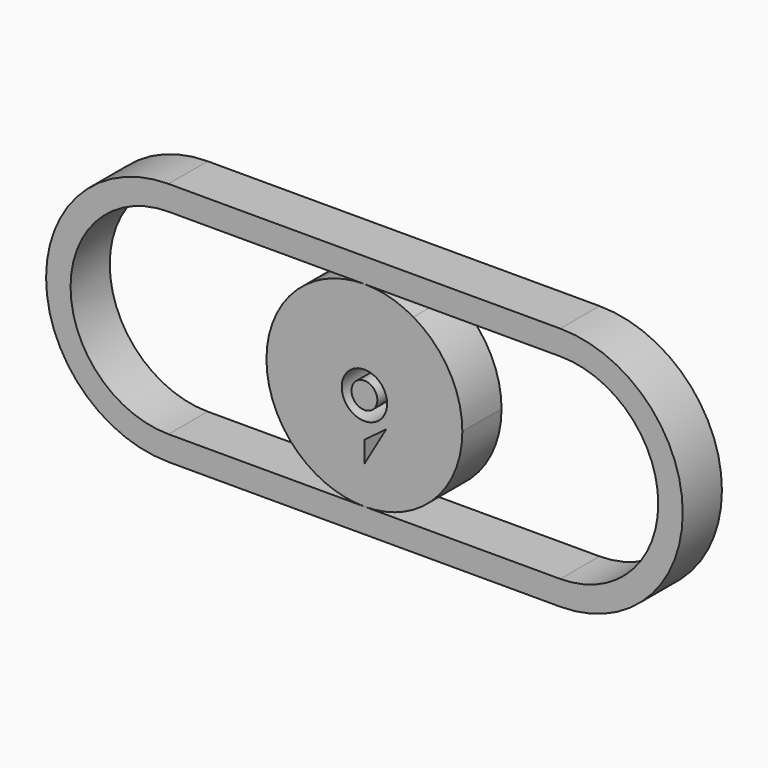
from build123d import *

# Parameters (mm, degrees)
F1_DEPTH = 25.4
F2_DEPTH = 25.4
F3_DEPTH = 25.4


with BuildPart() as f1:
    # F0 (on Front) → F1 (new body)
    with BuildSketch(Plane.XZ):
        with BuildLine():
            Line((11.774747, 0), (50.8, 0))
            ThreePointArc((50.8, 0), (43.994091, 25.4), (25.4, 43.994091))
            ThreePointArc((25.4, 43.994091), (13.148007, 49.069032), (0, 50.8))
            ThreePointArc((0, 50.8), (-13.148007, 49.069032), (-25.4, 43.994091))
            ThreePointArc((-25.4, 43.994091), (-43.994091, 25.4), (-50.8, 0))
            Line((-50.8, 0), (-11.774747, 0))
            ThreePointArc((-11.774747, 0), (0, 11.774747), (11.774747, 0))
        make_face()
        with BuildLine():
            ThreePointArc((25.4, -43.994091), (43.994091, -25.4), (50.8, 0))
            Line((50.8, 0), (11.774747, 0))
            ThreePointArc((11.774747, 0), (0, -11.774747), (-11.774747, 0))
            Line((-11.774747, 0), (-50.8, 0))
            ThreePointArc((-50.8, 0), (-43.994091, -25.4), (-25.4, -43.994091))
            ThreePointArc((-25.4, -43.994091), (-13.148007, -49.069032), (0, -50.8))
            ThreePointArc((0, -50.8), (13.148008, -49.069032), (25.4, -43.994091))
        make_face()
        Polygon((11.330799, -11.774747), (0, -31.287373), (0, -20.290352), align=None, mode=Mode.SUBTRACT)
    extrude(amount=F1_DEPTH)

    # F0 (on Front) → F2 (join)
    with BuildSketch(Plane.XZ):
        with BuildLine():
            Line((101.6, 63.5), (-101.6, 63.5))
            ThreePointArc((-101.6, 63.5), (-165.1, 0), (-101.6, -63.5))
            Line((-101.6, -63.5), (101.6, -63.5))
            ThreePointArc((101.6, -63.5), (165.1, 0), (101.6, 63.5))
        make_face()
        with BuildLine():
            Line((-101.6, 50.8), (0, 50.8))
            Line((0, 50.8), (101.6, 50.8))
            ThreePointArc((101.6, 50.8), (137.521024, 35.921024), (152.4, 0))
            ThreePointArc((152.4, 0), (137.521024, -35.921024), (101.6, -50.8))
            Line((101.6, -50.8), (0, -50.8))
            Line((0, -50.8), (-101.6, -50.8))
            ThreePointArc((-101.6, -50.8), (-152.4, 0), (-101.6, 50.8))
        make_face(mode=Mode.SUBTRACT)
    extrude(amount=F2_DEPTH)


with BuildPart() as f3:
    # F0 (on Front) → F3 (new body)
    with BuildSketch(Plane.XZ):
        with BuildLine():
            Line((0, 0), (6.70639, 0))
            ThreePointArc((6.70639, 0), (0, 6.70639), (-6.70639, 0))
            Line((-6.70639, 0), (0, 0))
        make_face()
        with BuildLine():
            ThreePointArc((-6.70639, 0), (0, -6.70639), (6.70639, 0))
            Line((6.70639, 0), (0, 0))
            Line((0, 0), (-6.70639, 0))
        make_face()
    extrude(amount=F3_DEPTH)


solid = Compound([f1.part, f3.part])
